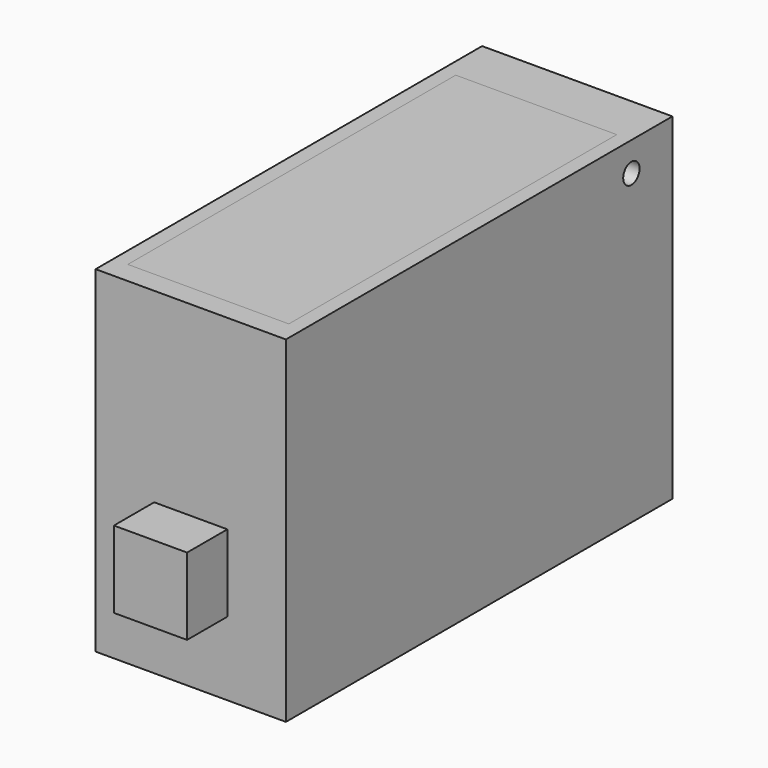
from build123d import *

# Parameters (mm, degrees)
SKETCH_W        = 66
SKETCH_H        = 46
SKETCH_R        = 1.4
PAD_DEPTH       = 13
POCKET001_DEPTH = 9
SKETCH002_R     = 1.4
PAD001_DEPTH    = 11
SKETCH003_W     = 2
SKETCH003_H     = 10
PAD002_DEPTH    = 8
SKETCH004_W     = 11
SKETCH004_H     = 3.6
POCKET_DEPTH    = 56.000977
SKETCH005_R     = 1.5
PAD003_DEPTH    = 5


with BuildPart() as body:
    # Sketch → Pad (new body, symmetric)
    with BuildSketch(Plane.YZ):
        with Locations((0, 23)):
            Rectangle(SKETCH_W, SKETCH_H)
        with Locations((26, 42)):
            Circle(SKETCH_R, mode=Mode.SUBTRACT)
    extrude(amount=PAD_DEPTH, both=True)

    # Sketch001 → Pocket001 (cut, symmetric)
    with BuildSketch(Plane.YZ):
        with BuildLine():
            ThreePointArc((-22.03882, 32), (-17.16793, 18.277436), (-8.866636, 6.314038))
            ThreePointArc((-8.866636, 6.314038), (-4.846053, 3.422033), (0, 2.4))
            Line((0, 2.4), (31, 2.4))
            Line((31, 2.4), (31, 28))
            Line((31, 28), (21, 38))
            Line((21, 38), (21, 46))
            Line((21, 46), (-26.5, 46))
            Line((-26.5, 42), (-26.5, 46))
            ThreePointArc((-26.5, 42), (-26.259153, 36.976956), (-25.53882, 32))
            Line((-22.03882, 32), (-25.53882, 32))
        make_face()
    extrude(amount=POCKET001_DEPTH, both=True, mode=Mode.SUBTRACT)


with BuildPart() as deckel:
    # Sketch002 → Pad001 (new body, symmetric)
    with BuildSketch(Plane.YZ):
        with BuildLine():
            Line((-55.999977, 4), (-55.999977, 0))
            Line((-55.999977, 0), (-4, 0))
            ThreePointArc((-4, 0), (2.828419, -2.828435), (2.3e-05, 4))
            Line((2.3e-05, 4), (-55.999977, 4))
        make_face()
        Circle(SKETCH002_R, mode=Mode.SUBTRACT)
    extrude(amount=PAD001_DEPTH, both=True)

    # Sketch003 → Pad002 (join, symmetric)
    with BuildSketch(Plane.YZ):
        with Locations((-53.999977, -5)):
            Rectangle(SKETCH003_W, SKETCH003_H)
    extrude(amount=PAD002_DEPTH, both=True)

    # Sketch004 → Pocket (cut, through all)
    with BuildSketch(Plane.XZ):
        with Locations((0, -6.3)):
            Rectangle(SKETCH004_W, SKETCH004_H)
    extrude(amount=POCKET_DEPTH, mode=Mode.SUBTRACT)


with BuildPart() as deckel_1:
    # Body001 placement: moved
    add(deckel.part.moved(Location((0, 26, 42))))


with BuildPart() as releasebutton:
    # Sketch005 → Pad003 (new body, symmetric)
    with BuildSketch(Plane.YZ):
        Polygon((-39.877338, 20.561775), (-30.192093, 20.561775), (-30.192093, 35.679817), (-28.815203, 37.469772), (-24.776928, 37.469772), (-24.058001, 33.957043), (-27.447226, 33.957043), (-27.447226, 29.929613), (-23.582961, 29.929613), (-23.582961, 10.056431), (-39.877338, 10.056431), align=None)
        with Locations((-25.958021, 27.435354)):
            Circle(SKETCH005_R, mode=Mode.SUBTRACT)
    extrude(amount=PAD003_DEPTH, both=True)


solid = Compound([body.part, deckel_1.part, releasebutton.part])
